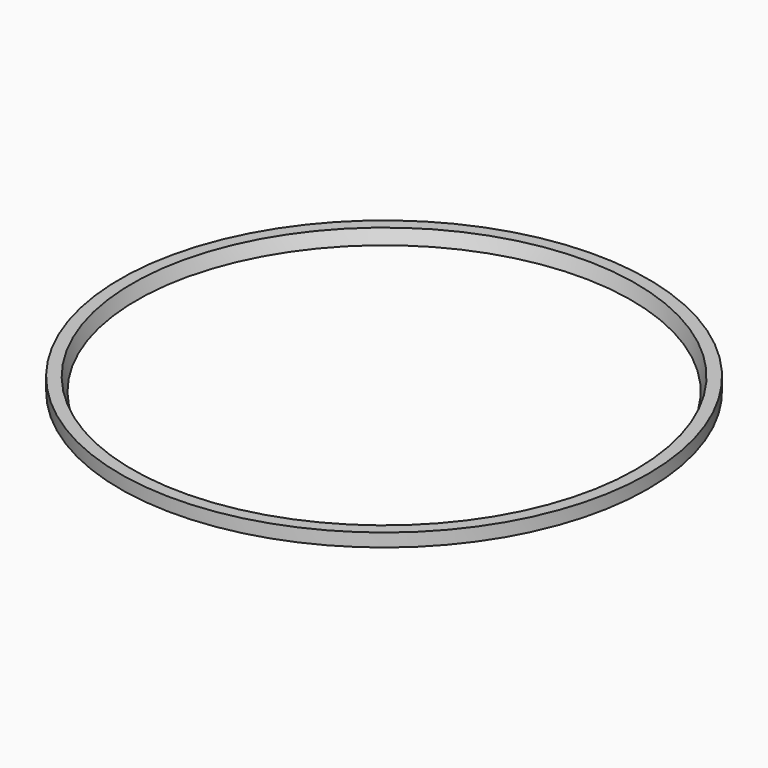
from build123d import *

# Parameters (mm, degrees)
SKETCH_R  = 20
PAD_DEPTH = 1


with BuildPart() as sphere:
    # Sphere → Sphere (revolve)
    with BuildSketch(Plane(origin=(0, 0, 7), x_dir=(1, 0, 0), z_dir=(0, -1, 0))):
        with BuildLine():
            ThreePointArc((0, -20), (20, 0), (0, 20))
            Line((0, 20), (0, -20))
        make_face()
    revolve(axis=Axis((0, 0, 7), (0, 0, 1)))


with BuildPart() as cut:
    # Sketch → Pad (new body)
    with BuildSketch(Plane.XY):
        Circle(SKETCH_R)
    extrude(amount=PAD_DEPTH)

    # Cut: cut Sphere
    add(sphere.part, mode=Mode.SUBTRACT)


solid = cut.part
